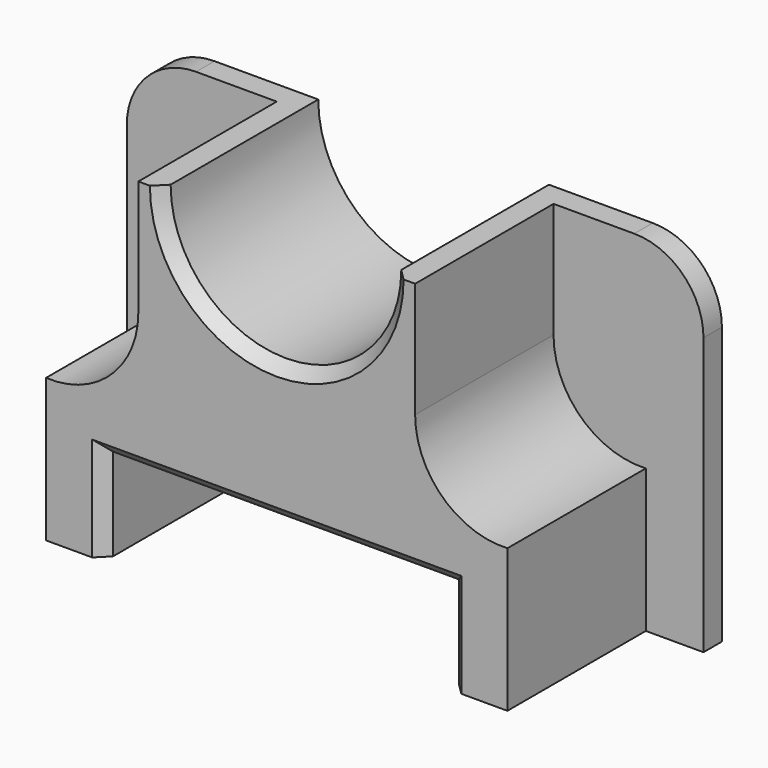
from build123d import *

# Parameters (mm, degrees)
F1_DEPTH = 2.54
F3_DEPTH = 19.05
F4_SIZE  = 1.27
F5_R     = 7.62


with BuildPart() as f1:
    # F0 (on Front) → F1 (new body)
    with BuildSketch(Plane.XZ):
        with BuildLine():
            Line((-31.75, 38.1), (-31.75, 0))
            Line((-31.75, 0), (31.75, 0))
            Line((31.75, 0), (31.75, 38.1))
            Line((31.75, 38.1), (12.7, 38.1))
            ThreePointArc((12.7, 38.1), (0, 25.4), (-12.7, 38.1))
            Line((-12.7, 38.1), (-31.75, 38.1))
        make_face()
    extrude(amount=F1_DEPTH)

    # F2 (on face) → F3 (join)
    with BuildSketch(Plane.XZ.offset(2.54)):
        with BuildLine():
            Line((19.05, 0), (25.4, 0))
            Line((25.4, 0), (25.4, 15.761378))
            ThreePointArc((25.4, 15.761378), (18.249038, 18.397703), (15.24, 25.4))
            Line((15.24, 25.4), (15.24, 38.1))
            Line((15.24, 38.1), (12.7, 38.1))
            ThreePointArc((12.7, 38.1), (0, 25.4), (-12.7, 38.1))
            Line((-12.7, 38.1), (-15.24, 38.1))
            Line((-15.24, 38.1), (-15.24, 25.4))
            ThreePointArc((-15.24, 25.4), (-18.249038, 18.397703), (-25.4, 15.761378))
            Line((-25.4, 15.761378), (-25.4, 0))
            Line((-25.4, 0), (-19.05, 0))
            Line((-19.05, 0), (-19.05, 10.16))
            Line((-19.05, 10.16), (19.05, 10.16))
            Line((19.05, 10.16), (19.05, 0))
        make_face()
    extrude(amount=F3_DEPTH)

    # F4
    f4_edges = [f1.edges().sort_by_distance(p)[0] for p in [
        (0, -21.59, 10.16),
        (-19.05, -21.59, 5.08),
        (19.05, -21.59, 5.08),
        (0, -21.59, 25.4),
    ]]
    chamfer(f4_edges, length=F4_SIZE)

    # F5
    f5_edges = [f1.edges().sort_by_distance(p)[0] for p in [
        (-31.75, -1.27, 38.1),
        (31.75, -1.27, 38.1),
    ]]
    fillet(f5_edges, radius=F5_R)


solid = f1.part
